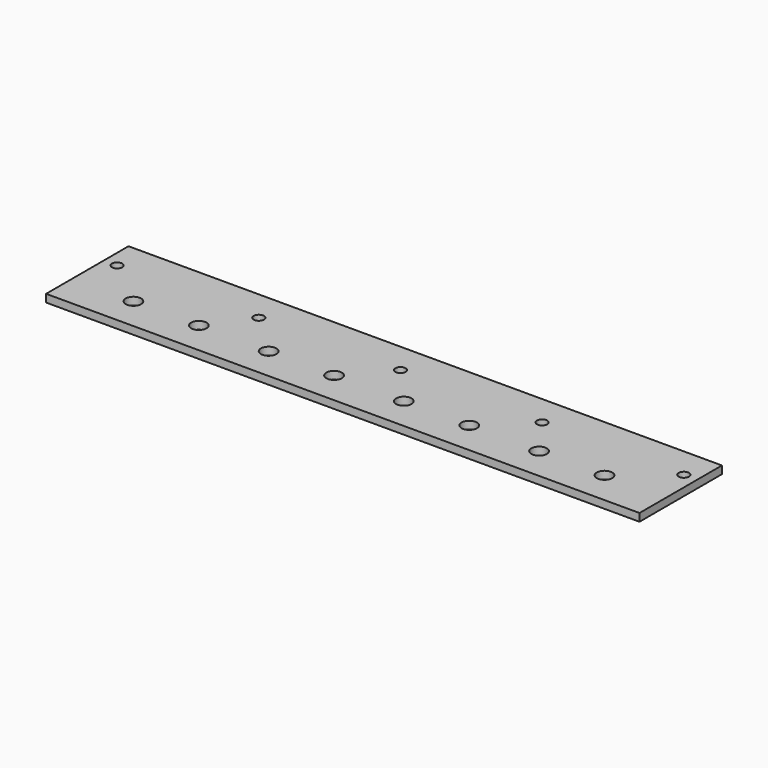
from build123d import *

# Parameters (mm, degrees)
F0_W     = 230.4
F0_H     = 40
F1_DEPTH = 3
F2_R     = 2
F3_DEPTH = 3.001
F4_R     = 3
F5_DEPTH = 3.001


with BuildPart() as f1:
    # F0 (on Top) → F1 (new body)
    with BuildSketch(Plane.XY):
        with Locations((115.2, 20)):
            Rectangle(F0_W, F0_H)
    extrude(amount=F1_DEPTH)

    # F2 (on face) → F3 (cut, through all)
    with BuildSketch(Plane.XY.offset(3)):
        with Locations((5.2, 28)):
            Circle(F2_R)
        with Locations((60.2, 28)):
            Circle(F2_R)
        with Locations((115.2, 28)):
            Circle(F2_R)
        with Locations((170.2, 28)):
            Circle(F2_R)
        with Locations((225.2, 28)):
            Circle(F2_R)
    extrude(amount=-F3_DEPTH, mode=Mode.SUBTRACT)

    # F4 (on face) → F5 (cut, through all)
    with BuildSketch(Plane.XY.offset(3)):
        with Locations((23.75, 12.7)):
            Circle(F4_R)
        with Locations((49.15, 12.7)):
            Circle(F4_R)
        with Locations((76.25, 12.7)):
            Circle(F4_R)
        with Locations((101.65, 12.7)):
            Circle(F4_R)
        with Locations((128.75, 12.7)):
            Circle(F4_R)
        with Locations((154.15, 12.7)):
            Circle(F4_R)
        with Locations((181.25, 12.7)):
            Circle(F4_R)
        with Locations((206.65, 12.7)):
            Circle(F4_R)
    extrude(amount=-F5_DEPTH, mode=Mode.SUBTRACT)


solid = f1.part
